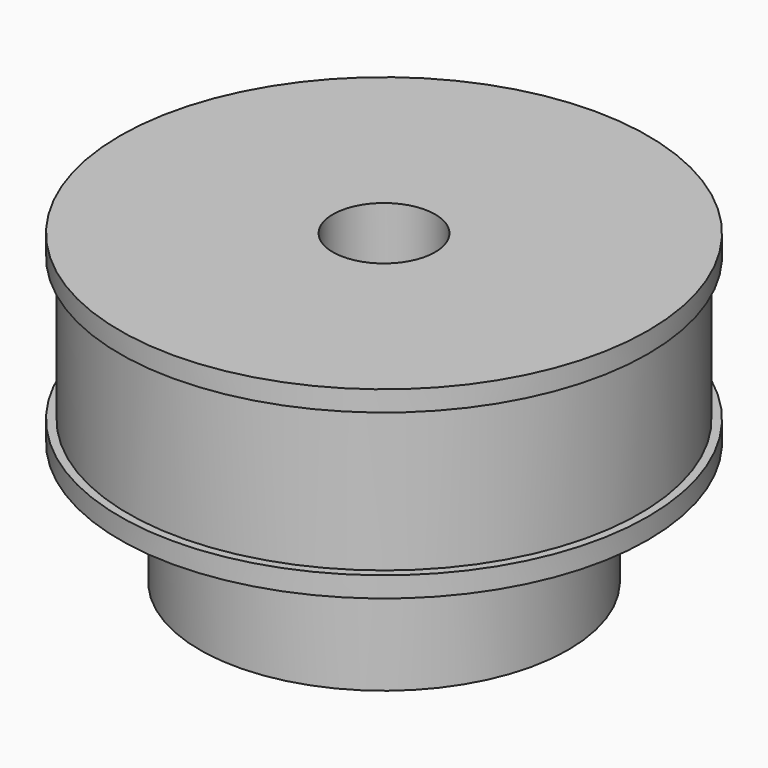
from build123d import *

# Parameters (mm, degrees)
F0_R     = 12.9
F1_DEPTH = 9
F2_R     = 9
F3_DEPTH = 6
F4_R     = 2.5
F5_DEPTH = 25
F6_W     = 1.571994
F6_H     = 7
F8_R     = 1.75
F9_DEPTH = 25


with BuildPart() as f1:
    # F0 (on Top) → F1 (new body)
    with BuildSketch(Plane.XY):
        Circle(F0_R)
    extrude(amount=F1_DEPTH)

    # F2 (on face) → F3 (join)
    with BuildSketch(Plane(origin=(0, 0, 0), x_dir=(1, 0, 0), z_dir=(0, 0, -1))):
        Circle(F2_R)
    extrude(amount=F3_DEPTH)

    # F4 (on face) → F5 (cut)
    with BuildSketch(Plane(origin=(0, 0, -6), x_dir=(1, 0, 0), z_dir=(0, 0, -1))):
        Circle(F4_R)
    extrude(amount=-F5_DEPTH, mode=Mode.SUBTRACT)

    # F6 (on Front) → F7 (revolve, cut)
    with BuildSketch(Plane.XZ):
        with Locations((-13.285997, 4.5)):
            Rectangle(F6_W, F6_H)
    revolve(axis=Axis((0, 0, 9), (0, 0, -1)), mode=Mode.SUBTRACT)

    # F8 (on Front) → F9 (cut)
    with BuildSketch(Plane.XZ):
        with Locations((0, -3)):
            Circle(F8_R)
    extrude(amount=-F9_DEPTH, mode=Mode.SUBTRACT)


solid = f1.part
